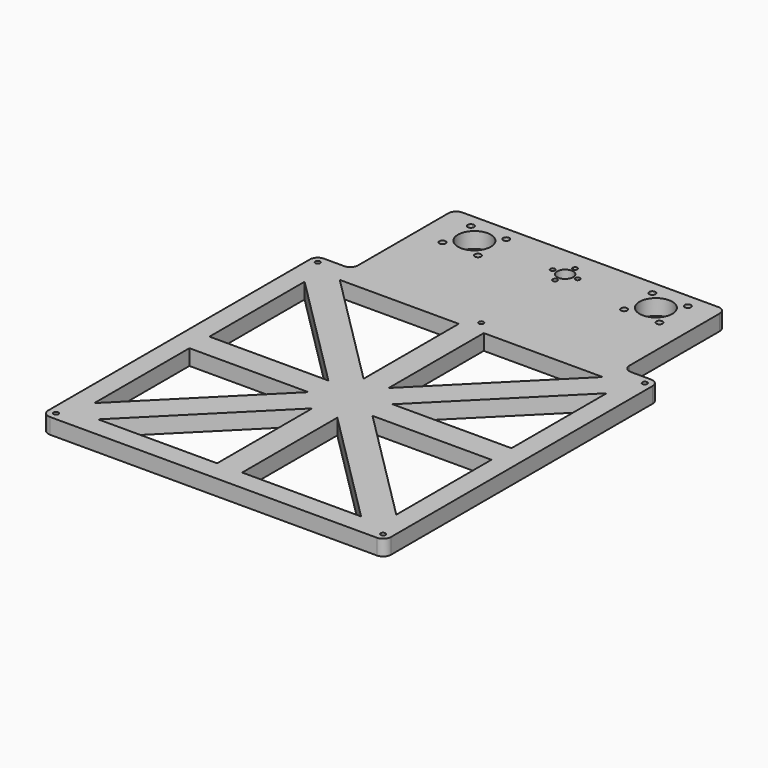
from build123d import *

# Parameters (mm, degrees)
F0_R     = 1.55
F0_R_2   = 2
F0_R_3   = 10.5
F0_R_4   = 1.5
F0_R_5   = 5.1
F1_DEPTH = 10


with BuildPart() as f1:
    # F0 (on Top) → F1 (new body)
    with BuildSketch(Plane.XY):
        with BuildLine():
            ThreePointArc((-81.7, 150.05), (-85.235534, 148.585534), (-86.7, 145.05))
            Line((-86.7, 145.05), (-86.7, 72.95))
            ThreePointArc((-86.7, 72.95), (-88.164466, 69.414466), (-91.7, 67.95))
            Line((-91.7, 67.95), (-104.5, 67.95))
            ThreePointArc((-104.5, 67.95), (-108.035534, 66.485534), (-109.5, 62.95))
            Line((-109.5, 62.95), (-109.5, -146.05))
            ThreePointArc((-109.5, -146.05), (-108.035534, -149.585534), (-104.5, -151.05))
            Line((-104.5, -151.05), (104.5, -151.05))
            ThreePointArc((104.5, -151.05), (108.035534, -149.585534), (109.5, -146.05))
            Line((109.5, -146.05), (109.5, 62.95))
            ThreePointArc((109.5, 62.95), (108.035534, 66.485534), (104.5, 67.95))
            Line((104.5, 67.95), (91.7, 67.95))
            ThreePointArc((91.7, 67.95), (88.164466, 69.414466), (86.7, 72.95))
            Line((86.7, 72.95), (86.7, 145.05))
            ThreePointArc((86.7, 145.05), (85.235534, 148.585534), (81.7, 150.05))
            Line((81.7, 150.05), (-81.7, 150.05))
        make_face()
        with Locations((-104.5, -146.05)):
            Circle(F0_R, mode=Mode.SUBTRACT)
        Polygon((-96.5, -125.559945), (-96.5, -49.554576), (-20.49463, -49.554576), align=None, mode=Mode.SUBTRACT)
        Polygon((-84.009945, -138.05), (-8.004576, -62.04463), (-8.004576, -138.05), align=None, mode=Mode.SUBTRACT)
        Polygon((8.004576, -62.04463), (84.009945, -138.05), (8.004576, -138.05), align=None, mode=Mode.SUBTRACT)
        with Locations((104.5, -146.05)):
            Circle(F0_R, mode=Mode.SUBTRACT)
        Polygon((96.5, -49.554576), (96.5, -125.559945), (20.49463, -49.554576), align=None, mode=Mode.SUBTRACT)
        Polygon((-96.5, -33.545424), (-96.5, 42.459945), (-20.49463, -33.545424), align=None, mode=Mode.SUBTRACT)
        with Locations((-104.5, 62.95)):
            Circle(F0_R, mode=Mode.SUBTRACT)
        Polygon((-8.004576, -21.05537), (-84.009945, 54.95), (-8.004576, 54.95), align=None, mode=Mode.SUBTRACT)
        with Locations((-69.313708, 118.636292)):
            Circle(F0_R_2, mode=Mode.SUBTRACT)
        with Locations((-58, 129.95)):
            Circle(F0_R_3, mode=Mode.SUBTRACT)
        with Locations((-69.313708, 141.263708)):
            Circle(F0_R_2, mode=Mode.SUBTRACT)
        with Locations((-46.686292, 118.636292)):
            Circle(F0_R_2, mode=Mode.SUBTRACT)
        with Locations((-46.686292, 141.263708)):
            Circle(F0_R_2, mode=Mode.SUBTRACT)
        with Locations((-8, 129.95)):
            Circle(F0_R_4, mode=Mode.SUBTRACT)
        Polygon((84.009945, 54.95), (8.004576, -21.05537), (8.004576, 54.95), align=None, mode=Mode.SUBTRACT)
        with Locations((0, 62.95)):
            Circle(F0_R, mode=Mode.SUBTRACT)
        Polygon((96.5, -33.545424), (20.49463, -33.545424), (96.5, 42.459945), align=None, mode=Mode.SUBTRACT)
        with Locations((104.5, 62.95)):
            Circle(F0_R, mode=Mode.SUBTRACT)
        with Locations((0, 121.95)):
            Circle(F0_R_4, mode=Mode.SUBTRACT)
        with Locations((0, 129.95)):
            Circle(F0_R_5, mode=Mode.SUBTRACT)
        with Locations((8, 129.95)):
            Circle(F0_R_4, mode=Mode.SUBTRACT)
        with Locations((0, 137.95)):
            Circle(F0_R_4, mode=Mode.SUBTRACT)
        with Locations((46.686292, 118.636292)):
            Circle(F0_R_2, mode=Mode.SUBTRACT)
        with Locations((46.686292, 141.263708)):
            Circle(F0_R_2, mode=Mode.SUBTRACT)
        with Locations((58, 129.95)):
            Circle(F0_R_3, mode=Mode.SUBTRACT)
        with Locations((69.313708, 118.636292)):
            Circle(F0_R_2, mode=Mode.SUBTRACT)
        with Locations((69.313708, 141.263708)):
            Circle(F0_R_2, mode=Mode.SUBTRACT)
    extrude(amount=F1_DEPTH)


solid = f1.part
